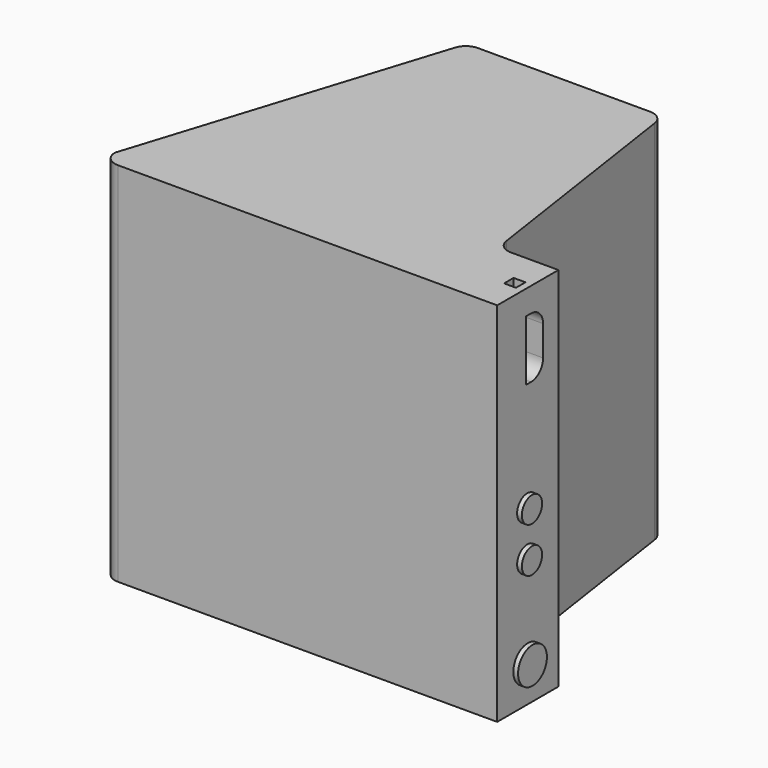
from build123d import *

# Parameters (mm, degrees)
F1_DEPTH  = 152.4
F3_DEPTH  = 154.432
F4_W      = 32.220531255
F4_H      = 154.432
F5_DEPTH  = 3
F6_R      = 7.5954813499
F6_R_2    = 5.3319461193
F7_DEPTH  = 2
F9_DEPTH  = 12
F10_W     = 112.0086535811
F10_H     = 112.0086535811
F11_DEPTH = 25.4


with BuildPart() as f1:
    # F0 (on Top) → F1 (new body)
    with BuildSketch(Plane.XY):
        with BuildLine():
            Line((-134.2638241291, 0), (0, 0))
            Line((0, 0), (22.4686227739, 0))
            Line((22.4686227739, 0), (22.4686227739, 6.3499999233))
            Line((22.4686227739, 6.3499999233), (0, 6.3499999233))
            Line((0, 6.35), (-128.7519809926, 6.35))
            ThreePointArc((-128.7519809926, 6.35), (-131.8256525814, 7.9086353107), (-132.3845036601, 11.3092950319))
            Line((-132.3845036601, 11.3092950319), (-94.8052258673, 130.0843481086))
            ThreePointArc((-94.8052258673, 130.0843481086), (-93.4240678892, 132.0087246655), (-91.1727031999, 132.7450530767))
            Line((-91.1727031999, 132.7450530767), (-24.7038652326, 132.7450530767))
            ThreePointArc((-24.7038652326, 132.7450530767), (-22.2165192123, 131.8210901131), (-20.9355855807, 129.4973416727))
            Line((-20.9355855807, 129.4973416727), (-7.0881516681, 36.6962359353))
            ThreePointArc((-7.0881516681, 36.6962359353), (-2.8183728961, 28.9504078005), (5.4727805049, 25.870531255))
            Line((5.4727805049, 25.870531255), (22.4686227739, 25.870531255))
            Line((22.4686227739, 25.870531255), (22.4686227739, 32.220531255))
            Line((22.4686227739, 32.220531255), (5.4727805049, 32.220531255))
            ThreePointArc((5.4727805049, 32.220531255), (1.3272038044, 33.7604695277), (-0.8076855816, 37.6333835952))
            Line((-0.8076855816, 37.6333835952), (-15.1397308432, 133.6822007366))
            ThreePointArc((-15.1397308432, 133.6822007366), (-17.2746202291, 137.555114804), (-21.4201969297, 139.0950530767))
            Line((-21.4201969297, 139.0950530767), (-93.9634045544, 139.0950530767))
            ThreePointArc((-93.9634045544, 139.0950530767), (-97.7156790366, 137.867839058), (-100.0176090002, 134.6605447965))
            Line((-100.0176090002, 134.6605447965), (-140.6138241291, 6.35))
            ThreePointArc((-140.6138241291, 6.35), (-138.7539521896, 1.8598719395), (-134.2638241291, 0))
        make_face()
    extrude(amount=F1_DEPTH)

    # F2 (on face) → F3 (join)
    with BuildSketch(Plane.XY.offset(152.4)):
        with BuildLine():
            Line((-134.2638241291, 0), (0, 0))
            Line((0, 0), (22.4686227739, 0))
            Line((22.4686227739, 0), (22.4686227739, 13.6102656275))
            Line((22.4686227739, 13.6102656275), (17.4686227739, 13.6102656275))
            Line((17.4686227739, 13.6102656275), (17.4686227739, 18.6102656275))
            Line((17.4686227739, 18.6102656275), (22.4686227739, 18.6102656275))
            Line((22.4686227739, 18.6102656275), (22.4686227739, 32.220531255))
            Line((22.4686227739, 32.220531255), (5.4727805049, 32.220531255))
            ThreePointArc((5.4727805049, 32.220531255), (1.3272038044, 33.7604695277), (-0.8076855816, 37.6333835952))
            Line((-0.8076855816, 37.6333835952), (-15.1397308432, 133.6822007366))
            ThreePointArc((-15.1397308432, 133.6822007366), (-17.2746202291, 137.555114804), (-21.4201969297, 139.0950530767))
            Line((-21.4201969297, 139.0950530767), (-93.9634045544, 139.0950530767))
            ThreePointArc((-93.9634045544, 139.0950530767), (-97.7156790366, 137.867839058), (-100.0176090002, 134.6605447965))
            Line((-100.0176090002, 134.6605447965), (-140.6138241291, 6.35))
            ThreePointArc((-140.6138241291, 6.35), (-138.7539521896, 1.8598719395), (-134.2638241291, 0))
        make_face()
    extrude(amount=-F3_DEPTH)

    # F4 (on face) → F5 (join)
    with BuildSketch(Plane.YZ.offset(22.4686227739)):
        with Locations((16.1102656275, 75.184)):
            Rectangle(F4_W, F4_H)
    extrude(amount=F5_DEPTH)

    # F6 (on face) → F7 (join)
    with BuildSketch(Plane.YZ.offset(25.4686227739)):
        with Locations((16.0748194903, 13.0553431809)):
            Circle(F6_R)
        with Locations((15.8114936203, 52.0275905728)):
            Circle(F6_R_2)
        with Locations((15.8114936203, 70.9870681167)):
            Circle(F6_R_2)
    extrude(amount=F7_DEPTH)

    # F8 (on face) → F9 (cut)
    with BuildSketch(Plane.YZ.offset(25.4686227739)):
        with BuildLine():
            Line((17.7747905254, 142.1712523777), (15.1247905254, 142.1712523777))
            Line((15.1247905254, 142.1712523777), (15.1247905254, 116.7472228408))
            Line((15.1247905254, 116.7472228408), (17.7747905254, 116.7472228408))
            ThreePointArc((17.7747905254, 116.7472228408), (22.264918586, 118.6070947803), (24.1247905254, 123.0972228408))
            Line((24.1247905254, 123.0972228408), (24.1247905254, 135.8212523777))
            ThreePointArc((24.1247905254, 135.8212523777), (22.264918586, 140.3113804383), (17.7747905254, 142.1712523777))
        make_face()
    extrude(amount=-F9_DEPTH, mode=Mode.SUBTRACT)

    # F10 (on face) → F11 (cut)
    with BuildSketch(Plane(origin=(-129.6450638104, 41.0184440351, 0), x_dir=(-0.3016522393, -0.953418023, 0), z_dir=(-0.953418023, 0.3016522393, 0))):
        with Locations((-29.8443771899, 75.3790028393)):
            Rectangle(F10_W, F10_H)
    extrude(amount=-F11_DEPTH, mode=Mode.SUBTRACT)


solid = f1.part
